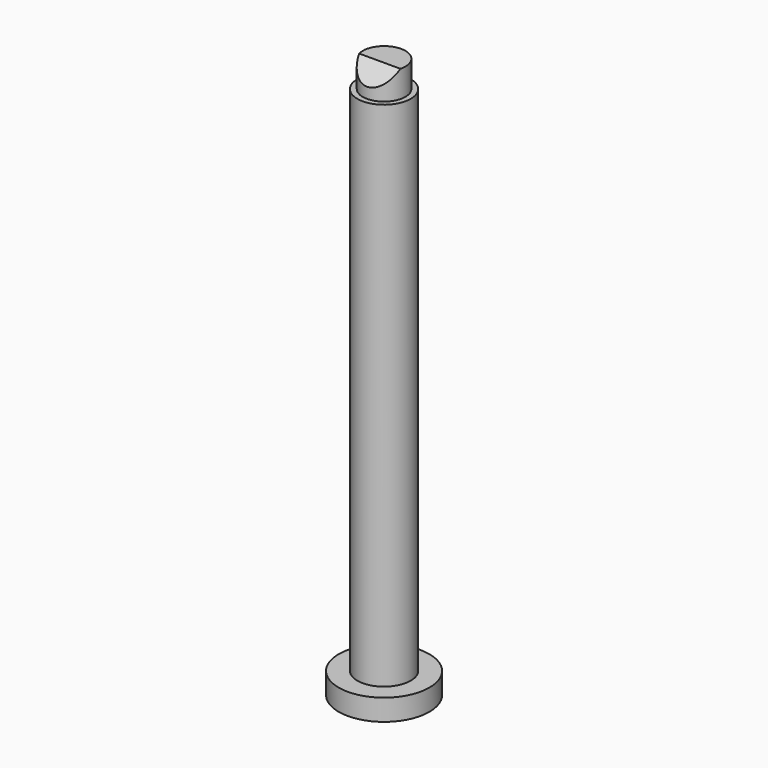
from build123d import *

# Parameters (mm, degrees)
F0_R          = 8.5
F1_DEPTH      = 4
F3_R          = 5
F4_DEPTH      = 100
F5_W          = 4
F5_H          = 5
F9_DEPTH      = 8.501
F9_DEPTH_BACK = 25


with BuildPart() as f1:
    # F0 (on Top) → F1 (new body)
    with BuildSketch(Plane.XY):
        Circle(F0_R)
    extrude(amount=F1_DEPTH)

    # F3 (on Top) → F4 (join)
    with BuildSketch(Plane.XY):
        Circle(F3_R)
    extrude(amount=F4_DEPTH)

    # F5 (on Right) → F6 (revolve)
    with BuildSketch(Plane.YZ):
        with Locations((2, 102.5)):
            Rectangle(F5_W, F5_H)
    revolve(axis=Axis((0, 0, 102.5), (0, 0, -1)))

    # F8 (on Right) → F9 (cut, two sides)
    with BuildSketch(Plane.YZ) as f9_sk:
        Polygon((0, 106), (-5, 106), (-5, 101), align=None)
    extrude(amount=-F9_DEPTH, mode=Mode.SUBTRACT)
    extrude(f9_sk.sketch, amount=F9_DEPTH_BACK, mode=Mode.SUBTRACT)


solid = f1.part
